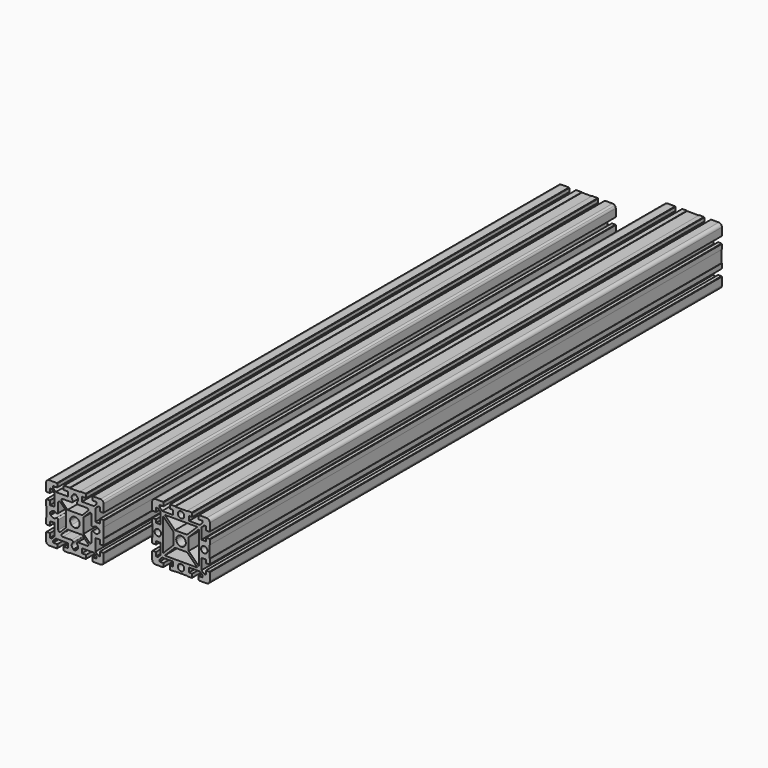
from build123d import *

# Parameters (mm, degrees)
F1_DEPTH = 1000
F2_DEPTH = 1000


with BuildPart() as f1:
    # F0 (on Front) → F1 (new body)
    with BuildSketch(Plane.XZ):
        with BuildLine():
            Line((0, 41.25), (0, 44.5))
            Line((0, 44.5), (-9.5, 44.5))
            Line((-9.5, 44.5), (-9.5, 45))
            Line((-9.5, 45), (-17, 45))
            Line((-17, 45), (-17, 44.5))
            Line((-17, 44.5), (-17.5, 44.5))
            Line((-17.5, 44.5), (-17.5, 39))
            Line((-17.5, 39), (-12.5, 39))
            Line((-12.5, 39), (-12.5, 32))
            Line((-12.5, 32), (-29.5, 32))
            Line((-29.5, 32), (-33.5, 36))
            Line((-33.5, 36), (-33.5, 39))
            Line((-33.5, 39), (-27.5, 39))
            Line((-27.5, 39), (-27.5, 44.5))
            Line((-27.5, 44.5), (-28, 44.5))
            Line((-28, 44.5), (-28, 45))
            Line((-28, 45), (-40, 45))
            ThreePointArc((-40, 45), (-43.535534, 43.535534), (-45, 40))
            Line((-45, 40), (-45, 28))
            Line((-45, 28), (-44.5, 28))
            Line((-44.5, 28), (-44.5, 27.5))
            Line((-44.5, 27.5), (-39, 27.5))
            Line((-39, 27.5), (-39, 33.5))
            Line((-39, 33.5), (-36, 33.5))
            Line((-36, 33.5), (-32, 29.5))
            Line((-32, 29.5), (-32, 12.5))
            Line((-32, 12.5), (-39, 12.5))
            Line((-39, 12.5), (-39, 17.5))
            Line((-39, 17.5), (-44.5, 17.5))
            Line((-44.5, 17.5), (-44.5, 17))
            Line((-44.5, 17), (-45, 17))
            Line((-45, 17), (-45, 9.5))
            Line((-45, 9.5), (-44.5, 9.5))
            Line((-44.5, 9.5), (-44.5, 0))
            Line((-44.5, 0), (-41.25, 0))
            ThreePointArc((-41.25, 0), (-36.25, 5), (-31.25, 0))
            Line((-31.25, 0), (-28, 0))
            Line((-28, 0), (-28, 25.5))
            Line((-28, 25.5), (-12, 9.5))
            Line((-12, 9.5), (-12, 0))
            Line((-12, 0), (-7.5, 0))
            ThreePointArc((-7.5, 0), (-5.303301, 5.303301), (0, 7.5))
            Line((0, 7.5), (0, 12))
            Line((0, 12), (-9.5, 12))
            Line((-9.5, 12), (-25.5, 28))
            Line((-25.5, 28), (0, 28))
            Line((0, 28), (0, 31.25))
            ThreePointArc((0, 31.25), (-5, 36.25), (0, 41.25))
        make_face()
        with BuildLine():
            Line((40, 45), (28, 45))
            Line((28, 45), (28, 44.5))
            Line((28, 44.5), (27.5, 44.5))
            Line((27.5, 44.5), (27.5, 39))
            Line((27.5, 39), (33.5, 39))
            Line((33.5, 39), (33.5, 36))
            Line((33.5, 36), (29.5, 32))
            Line((29.5, 32), (12.5, 32))
            Line((12.5, 32), (12.5, 39))
            Line((12.5, 39), (17.5, 39))
            Line((17.5, 39), (17.5, 44.5))
            Line((17.5, 44.5), (17, 44.5))
            Line((17, 44.5), (17, 45))
            Line((17, 45), (9.5, 45))
            Line((9.5, 45), (9.5, 44.5))
            Line((9.5, 44.5), (0, 44.5))
            Line((0, 44.5), (0, 41.25))
            ThreePointArc((0, 41.25), (5, 36.25), (0, 31.25))
            Line((0, 31.25), (0, 28))
            Line((0, 28), (25.5, 28))
            Line((25.5, 28), (9.5, 12))
            Line((9.5, 12), (0, 12))
            Line((0, 12), (0, 7.5))
            ThreePointArc((0, 7.5), (5.303301, 5.303301), (7.5, 0))
            Line((7.5, 0), (12, 0))
            Line((12, 0), (12, 9.5))
            Line((12, 9.5), (28, 25.5))
            Line((28, 25.5), (28, 0))
            Line((28, 0), (31.25, 0))
            ThreePointArc((31.25, 0), (36.25, 5), (41.25, 0))
            Line((41.25, 0), (44.5, 0))
            Line((44.5, 0), (44.5, 9.5))
            Line((44.5, 9.5), (45, 9.5))
            Line((45, 9.5), (45, 17))
            Line((45, 17), (44.5, 17))
            Line((44.5, 17), (44.5, 17.5))
            Line((44.5, 17.5), (39, 17.5))
            Line((39, 17.5), (39, 12.5))
            Line((39, 12.5), (32, 12.5))
            Line((32, 12.5), (32, 29.5))
            Line((32, 29.5), (36, 33.5))
            Line((36, 33.5), (39, 33.5))
            Line((39, 33.5), (39, 27.5))
            Line((39, 27.5), (44.5, 27.5))
            Line((44.5, 27.5), (44.5, 28))
            Line((44.5, 28), (45, 28))
            Line((45, 28), (45, 40))
            ThreePointArc((45, 40), (43.535534, 43.535534), (40, 45))
        make_face()
        with BuildLine():
            ThreePointArc((0, -7.5), (-5.303301, -5.303301), (-7.5, 0))
            Line((-7.5, 0), (-12, 0))
            Line((-12, 0), (-12, -9.5))
            Line((-12, -9.5), (-28, -25.5))
            Line((-28, -25.5), (-28, 0))
            Line((-28, 0), (-31.25, 0))
            ThreePointArc((-31.25, 0), (-36.25, -5), (-41.25, 0))
            Line((-41.25, 0), (-44.5, 0))
            Line((-44.5, 0), (-44.5, -9.5))
            Line((-44.5, -9.5), (-45, -9.5))
            Line((-45, -9.5), (-45, -17))
            Line((-45, -17), (-44.5, -17))
            Line((-44.5, -17), (-44.5, -17.5))
            Line((-44.5, -17.5), (-39, -17.5))
            Line((-39, -17.5), (-39, -12.5))
            Line((-39, -12.5), (-32, -12.5))
            Line((-32, -12.5), (-32, -29.5))
            Line((-32, -29.5), (-36, -33.5))
            Line((-36, -33.5), (-39, -33.5))
            Line((-39, -33.5), (-39, -27.5))
            Line((-39, -27.5), (-44.5, -27.5))
            Line((-44.5, -27.5), (-44.5, -28))
            Line((-44.5, -28), (-45, -28))
            Line((-45, -28), (-45, -40))
            ThreePointArc((-45, -40), (-43.535534, -43.535534), (-40, -45))
            Line((-40, -45), (-28, -45))
            Line((-28, -45), (-28, -44.5))
            Line((-28, -44.5), (-27.5, -44.5))
            Line((-27.5, -44.5), (-27.5, -39))
            Line((-27.5, -39), (-33.5, -39))
            Line((-33.5, -39), (-33.5, -36))
            Line((-33.5, -36), (-29.5, -32))
            Line((-29.5, -32), (-12.5, -32))
            Line((-12.5, -32), (-12.5, -39))
            Line((-12.5, -39), (-17.5, -39))
            Line((-17.5, -39), (-17.5, -44.5))
            Line((-17.5, -44.5), (-17, -44.5))
            Line((-17, -44.5), (-17, -45))
            Line((-17, -45), (-9.5, -45))
            Line((-9.5, -45), (-9.5, -44.5))
            Line((-9.5, -44.5), (0, -44.5))
            Line((0, -44.5), (0, -41.25))
            ThreePointArc((0, -41.25), (-5, -36.25), (0, -31.25))
            Line((0, -31.25), (0, -28))
            Line((0, -28), (-25.5, -28))
            Line((-25.5, -28), (-9.5, -12))
            Line((-9.5, -12), (0, -12))
            Line((0, -12), (0, -7.5))
        make_face()
        with BuildLine():
            Line((44.5, -9.5), (44.5, 0))
            Line((44.5, 0), (41.25, 0))
            ThreePointArc((41.25, 0), (36.25, -5), (31.25, 0))
            Line((31.25, 0), (28, 0))
            Line((28, 0), (28, -25.5))
            Line((28, -25.5), (12, -9.5))
            Line((12, -9.5), (12, 0))
            Line((12, 0), (7.5, 0))
            ThreePointArc((7.5, 0), (5.303301, -5.303301), (0, -7.5))
            Line((0, -7.5), (0, -12))
            Line((0, -12), (9.5, -12))
            Line((9.5, -12), (25.5, -28))
            Line((25.5, -28), (0, -28))
            Line((0, -28), (0, -31.25))
            ThreePointArc((0, -31.25), (5, -36.25), (0, -41.25))
            Line((0, -41.25), (0, -44.5))
            Line((0, -44.5), (9.5, -44.5))
            Line((9.5, -44.5), (9.5, -45))
            Line((9.5, -45), (17, -45))
            Line((17, -45), (17, -44.5))
            Line((17, -44.5), (17.5, -44.5))
            Line((17.5, -44.5), (17.5, -39))
            Line((17.5, -39), (12.5, -39))
            Line((12.5, -39), (12.5, -32))
            Line((12.5, -32), (29.5, -32))
            Line((29.5, -32), (33.5, -36))
            Line((33.5, -36), (33.5, -39))
            Line((33.5, -39), (27.5, -39))
            Line((27.5, -39), (27.5, -44.5))
            Line((27.5, -44.5), (28, -44.5))
            Line((28, -44.5), (28, -45))
            Line((28, -45), (40, -45))
            ThreePointArc((40, -45), (43.535534, -43.535534), (45, -40))
            Line((45, -40), (45, -28))
            Line((45, -28), (44.5, -28))
            Line((44.5, -28), (44.5, -27.5))
            Line((44.5, -27.5), (39, -27.5))
            Line((39, -27.5), (39, -33.5))
            Line((39, -33.5), (36, -33.5))
            Line((36, -33.5), (32, -29.5))
            Line((32, -29.5), (32, -12.5))
            Line((32, -12.5), (39, -12.5))
            Line((39, -12.5), (39, -17.5))
            Line((39, -17.5), (44.5, -17.5))
            Line((44.5, -17.5), (44.5, -17))
            Line((44.5, -17), (45, -17))
            Line((45, -17), (45, -9.5))
            Line((45, -9.5), (44.5, -9.5))
        make_face()
    extrude(amount=F1_DEPTH)


with BuildPart() as f2:
    # F0 (on Front) → F2 (new body)
    with BuildSketch(Plane.XZ):
        with BuildLine():
            Line((-157.831119, 16.5), (-165.831119, 16.5))
            Line((-165.831119, 16.5), (-173.831119, 16.5))
            Line((-173.831119, 16.5), (-173.831119, 17))
            Line((-173.831119, 17), (-182.831119, 17))
            Line((-182.831119, 17), (-182.831119, 16.5))
            Line((-182.831119, 16.5), (-183.331119, 16.5))
            Line((-183.331119, 16.5), (-183.331119, 11))
            Line((-183.331119, 11), (-176.831119, 11))
            Line((-176.831119, 11), (-176.831119, 4))
            Line((-176.831119, 4), (-195.709798, 4))
            Line((-195.709798, 4), (-199.831119, 8.12132))
            Line((-199.831119, 8.12132), (-199.831119, 11))
            Line((-199.831119, 11), (-193.331119, 11))
            Line((-193.331119, 11), (-193.331119, 16.5))
            Line((-193.331119, 16.5), (-193.831119, 16.5))
            Line((-193.831119, 16.5), (-193.831119, 17))
            Line((-193.831119, 17), (-205.831119, 17))
            ThreePointArc((-205.831119, 17), (-207.744536, 16.619398), (-209.366653, 15.535534))
            ThreePointArc((-209.366653, 15.535534), (-210.450516, 13.913417), (-210.831119, 12))
            Line((-210.831119, 12), (-210.831119, 0))
            Line((-210.831119, 0), (-210.331119, 0))
            Line((-210.331119, 0), (-210.331119, -0.5))
            Line((-210.331119, -0.5), (-204.831119, -0.5))
            Line((-204.831119, -0.5), (-204.831119, 6))
            Line((-204.831119, 6), (-201.952439, 6))
            Line((-201.952439, 6), (-197.831119, 1.87868))
            Line((-197.831119, 1.87868), (-197.831119, -17))
            Line((-197.831119, -17), (-204.831119, -17))
            Line((-204.831119, -17), (-204.831119, -10.5))
            Line((-204.831119, -10.5), (-210.331119, -10.5))
            Line((-210.331119, -10.5), (-210.331119, -11))
            Line((-210.331119, -11), (-210.831119, -11))
            Line((-210.831119, -11), (-210.831119, -20))
            Line((-210.831119, -20), (-210.331119, -20))
            Line((-210.331119, -20), (-210.331119, -28))
            Line((-210.331119, -28), (-210.331119, -36))
            Line((-210.331119, -36), (-210.831119, -36))
            Line((-210.831119, -36), (-210.831119, -45))
            Line((-210.831119, -45), (-210.331119, -45))
            Line((-210.331119, -45), (-210.331119, -45.5))
            Line((-210.331119, -45.5), (-204.831119, -45.5))
            Line((-204.831119, -45.5), (-204.831119, -39))
            Line((-204.831119, -39), (-197.831119, -39))
            Line((-197.831119, -39), (-197.831119, -57.87868))
            Line((-197.831119, -57.87868), (-201.952439, -62))
            Line((-201.952439, -62), (-204.831119, -62))
            Line((-204.831119, -62), (-204.831119, -55.5))
            Line((-204.831119, -55.5), (-210.331119, -55.5))
            Line((-210.331119, -55.5), (-210.331119, -56))
            Line((-210.331119, -56), (-210.831119, -56))
            Line((-210.831119, -56), (-210.831119, -68))
            ThreePointArc((-210.831119, -68), (-210.450516, -69.913417), (-209.366653, -71.535534))
            ThreePointArc((-209.366653, -71.535534), (-207.744536, -72.619398), (-205.831119, -73))
            Line((-205.831119, -73), (-193.831119, -73))
            Line((-193.831119, -73), (-193.831119, -72.5))
            Line((-193.831119, -72.5), (-193.331119, -72.5))
            Line((-193.331119, -72.5), (-193.331119, -67))
            Line((-193.331119, -67), (-199.831119, -67))
            Line((-199.831119, -67), (-199.831119, -64.12132))
            Line((-199.831119, -64.12132), (-195.709798, -60))
            Line((-195.709798, -60), (-176.831119, -60))
            Line((-176.831119, -60), (-176.831119, -67))
            Line((-176.831119, -67), (-183.331119, -67))
            Line((-183.331119, -67), (-183.331119, -72.5))
            Line((-183.331119, -72.5), (-182.831119, -72.5))
            Line((-182.831119, -72.5), (-182.831119, -73))
            Line((-182.831119, -73), (-173.831119, -73))
            Line((-173.831119, -73), (-173.831119, -72.5))
            Line((-173.831119, -72.5), (-165.831119, -72.5))
            Line((-165.831119, -72.5), (-157.831119, -72.5))
            Line((-157.831119, -72.5), (-157.831119, -73))
            Line((-157.831119, -73), (-148.831119, -73))
            Line((-148.831119, -73), (-148.831119, -72.5))
            Line((-148.831119, -72.5), (-148.331119, -72.5))
            Line((-148.331119, -72.5), (-148.331119, -67))
            Line((-148.331119, -67), (-154.831119, -67))
            Line((-154.831119, -67), (-154.831119, -60))
            Line((-154.831119, -60), (-135.952439, -60))
            Line((-135.952439, -60), (-131.831119, -64.12132))
            Line((-131.831119, -64.12132), (-131.831119, -67))
            Line((-131.831119, -67), (-138.331119, -67))
            Line((-138.331119, -67), (-138.331119, -72.5))
            Line((-138.331119, -72.5), (-137.831119, -72.5))
            Line((-137.831119, -72.5), (-137.831119, -73))
            Line((-137.831119, -73), (-125.831119, -73))
            ThreePointArc((-125.831119, -73), (-123.917702, -72.619398), (-122.295585, -71.535534))
            ThreePointArc((-122.295585, -71.535534), (-121.211721, -69.913417), (-120.831119, -68))
            Line((-120.831119, -68), (-120.831119, -56))
            Line((-120.831119, -56), (-121.331119, -56))
            Line((-121.331119, -56), (-121.331119, -55.5))
            Line((-121.331119, -55.5), (-126.831119, -55.5))
            Line((-126.831119, -55.5), (-126.831119, -62))
            Line((-126.831119, -62), (-129.709798, -62))
            Line((-129.709798, -62), (-133.831119, -57.87868))
            Line((-133.831119, -57.87868), (-133.831119, -39))
            Line((-133.831119, -39), (-126.831119, -39))
            Line((-126.831119, -39), (-126.831119, -45.5))
            Line((-126.831119, -45.5), (-121.331119, -45.5))
            Line((-121.331119, -45.5), (-121.331119, -45))
            Line((-121.331119, -45), (-120.831119, -45))
            Line((-120.831119, -45), (-120.831119, -36))
            Line((-120.831119, -36), (-121.331119, -36))
            Line((-121.331119, -36), (-121.331119, -28))
            Line((-121.331119, -28), (-121.331119, -20))
            Line((-121.331119, -20), (-120.831119, -20))
            Line((-120.831119, -20), (-120.831119, -11))
            Line((-120.831119, -11), (-121.331119, -11))
            Line((-121.331119, -11), (-121.331119, -10.5))
            Line((-121.331119, -10.5), (-126.831119, -10.5))
            Line((-126.831119, -10.5), (-126.831119, -17))
            Line((-126.831119, -17), (-133.831119, -17))
            Line((-133.831119, -17), (-133.831119, 1.87868))
            Line((-133.831119, 1.87868), (-129.709798, 6))
            Line((-129.709798, 6), (-126.831119, 6))
            Line((-126.831119, 6), (-126.831119, -0.5))
            Line((-126.831119, -0.5), (-121.331119, -0.5))
            Line((-121.331119, -0.5), (-121.331119, 0))
            Line((-121.331119, 0), (-120.831119, 0))
            Line((-120.831119, 0), (-120.831119, 12))
            ThreePointArc((-120.831119, 12), (-121.211721, 13.913417), (-122.295585, 15.535534))
            ThreePointArc((-122.295585, 15.535534), (-123.917702, 16.619398), (-125.831119, 17))
            Line((-125.831119, 17), (-137.831119, 17))
            Line((-137.831119, 17), (-137.831119, 16.5))
            Line((-137.831119, 16.5), (-138.331119, 16.5))
            Line((-138.331119, 16.5), (-138.331119, 11))
            Line((-138.331119, 11), (-131.831119, 11))
            Line((-131.831119, 11), (-131.831119, 8.12132))
            Line((-131.831119, 8.12132), (-135.952439, 4))
            Line((-135.952439, 4), (-154.831119, 4))
            Line((-154.831119, 4), (-154.831119, 11))
            Line((-154.831119, 11), (-148.331119, 11))
            Line((-148.331119, 11), (-148.331119, 16.5))
            Line((-148.331119, 16.5), (-148.831119, 16.5))
            Line((-148.831119, 16.5), (-148.831119, 17))
            Line((-148.831119, 17), (-157.831119, 17))
            Line((-157.831119, 17), (-157.831119, 16.5))
        make_face()
        with BuildLine():
            Line((-165.831119, -41.5), (-154.452439, -41.5))
            Line((-154.452439, -41.5), (-145.366653, -50.585786))
            ThreePointArc((-145.366653, -50.585786), (-144.933107, -52.765367), (-146.780866, -54))
            Line((-146.780866, -54), (-160.831119, -54))
            ThreePointArc((-160.831119, -54), (-162.674949, -55.225215), (-162.25969, -57.399708))
            ThreePointArc((-162.25969, -57.399708), (-160.927539, -61.87617), (-163.873924, -65.5))
            Line((-163.873924, -65.5), (-163.873924, -66.5))
            Line((-163.873924, -66.5), (-165.831119, -66.5))
            Line((-165.831119, -66.5), (-167.788313, -66.5))
            Line((-167.788313, -66.5), (-167.788313, -65.5))
            ThreePointArc((-167.788313, -65.5), (-170.734699, -61.87617), (-169.402547, -57.399708))
            ThreePointArc((-169.402547, -57.399708), (-168.987289, -55.225215), (-170.831119, -54))
            Line((-170.831119, -54), (-184.881371, -54))
            ThreePointArc((-184.881371, -54), (-186.72913, -52.765367), (-186.295585, -50.585786))
            Line((-186.295585, -50.585786), (-177.209798, -41.5))
            Line((-177.209798, -41.5), (-165.831119, -41.5))
        make_face(mode=Mode.SUBTRACT)
        with BuildLine():
            Line((-179.331119, -28), (-179.331119, -39.37868))
            Line((-179.331119, -39.37868), (-188.416905, -48.464466))
            ThreePointArc((-188.416905, -48.464466), (-190.596486, -48.898012), (-191.831119, -47.050253))
            Line((-191.831119, -47.050253), (-191.831119, -33))
            ThreePointArc((-191.831119, -33), (-193.056334, -31.15617), (-195.230827, -31.571429))
            ThreePointArc((-195.230827, -31.571429), (-199.707289, -32.90358), (-203.331119, -29.957194))
            Line((-203.331119, -29.957194), (-204.331119, -29.957194))
            Line((-204.331119, -29.957194), (-204.331119, -28))
            Line((-204.331119, -28), (-204.331119, -26.042806))
            Line((-204.331119, -26.042806), (-203.331119, -26.042806))
            ThreePointArc((-203.331119, -26.042806), (-199.707289, -23.09642), (-195.230827, -24.428571))
            ThreePointArc((-195.230827, -24.428571), (-193.056334, -24.84383), (-191.831119, -23))
            Line((-191.831119, -23), (-191.831119, -8.949747))
            ThreePointArc((-191.831119, -8.949747), (-190.596486, -7.101988), (-188.416905, -7.535534))
            Line((-188.416905, -7.535534), (-179.331119, -16.62132))
            Line((-179.331119, -16.62132), (-179.331119, -28))
        make_face(mode=Mode.SUBTRACT)
        with BuildLine():
            ThreePointArc((-171.13442, -22.696699), (-168.701245, -21.070904), (-165.831119, -20.5))
            ThreePointArc((-165.831119, -20.5), (-162.960993, -21.070904), (-160.527818, -22.696699))
            ThreePointArc((-160.527818, -22.696699), (-158.902022, -25.129874), (-158.331119, -28))
            ThreePointArc((-158.331119, -28), (-158.902022, -30.870126), (-160.527818, -33.303301))
            ThreePointArc((-160.527818, -33.303301), (-162.960993, -34.929096), (-165.831119, -35.5))
            ThreePointArc((-165.831119, -35.5), (-168.701245, -34.929096), (-171.13442, -33.303301))
            ThreePointArc((-171.13442, -33.303301), (-172.760215, -30.870126), (-173.331119, -28))
            ThreePointArc((-173.331119, -28), (-172.760215, -25.129874), (-171.13442, -22.696699))
        make_face(mode=Mode.SUBTRACT)
        with BuildLine():
            Line((-128.331119, -26.042806), (-127.331119, -26.042806))
            Line((-127.331119, -26.042806), (-127.331119, -28))
            Line((-127.331119, -28), (-127.331119, -29.957194))
            Line((-127.331119, -29.957194), (-128.331119, -29.957194))
            ThreePointArc((-128.331119, -29.957194), (-131.954949, -32.90358), (-136.43141, -31.571429))
            ThreePointArc((-136.43141, -31.571429), (-138.605904, -31.15617), (-139.831119, -33))
            Line((-139.831119, -33), (-139.831119, -47.050253))
            ThreePointArc((-139.831119, -47.050253), (-141.065752, -48.898012), (-143.245332, -48.464466))
            Line((-143.245332, -48.464466), (-152.331119, -39.37868))
            Line((-152.331119, -39.37868), (-152.331119, -28))
            Line((-152.331119, -28), (-152.331119, -16.62132))
            Line((-152.331119, -16.62132), (-143.245332, -7.535534))
            ThreePointArc((-143.245332, -7.535534), (-141.065752, -7.101988), (-139.831119, -8.949747))
            Line((-139.831119, -8.949747), (-139.831119, -23))
            ThreePointArc((-139.831119, -23), (-138.605904, -24.84383), (-136.43141, -24.428571))
            ThreePointArc((-136.43141, -24.428571), (-131.954949, -23.09642), (-128.331119, -26.042806))
        make_face(mode=Mode.SUBTRACT)
        with BuildLine():
            Line((-167.788313, 10.5), (-165.831119, 10.5))
            Line((-165.831119, 10.5), (-163.873924, 10.5))
            Line((-163.873924, 10.5), (-163.873924, 9.5))
            ThreePointArc((-163.873924, 9.5), (-160.927539, 5.87617), (-162.25969, 1.399708))
            ThreePointArc((-162.25969, 1.399708), (-162.674949, -0.774785), (-160.831119, -2))
            Line((-160.831119, -2), (-146.780866, -2))
            ThreePointArc((-146.780866, -2), (-144.933107, -3.234633), (-145.366653, -5.414214))
            Line((-145.366653, -5.414214), (-154.452439, -14.5))
            Line((-154.452439, -14.5), (-165.831119, -14.5))
            Line((-165.831119, -14.5), (-177.209798, -14.5))
            Line((-177.209798, -14.5), (-186.295585, -5.414214))
            ThreePointArc((-186.295585, -5.414214), (-186.72913, -3.234633), (-184.881371, -2))
            Line((-184.881371, -2), (-170.831119, -2))
            ThreePointArc((-170.831119, -2), (-168.987289, -0.774785), (-169.402547, 1.399708))
            ThreePointArc((-169.402547, 1.399708), (-170.734699, 5.87617), (-167.788313, 9.5))
            Line((-167.788313, 9.5), (-167.788313, 10.5))
        make_face(mode=Mode.SUBTRACT)
    extrude(amount=F2_DEPTH)


solid = Compound([f1.part, f2.part])
